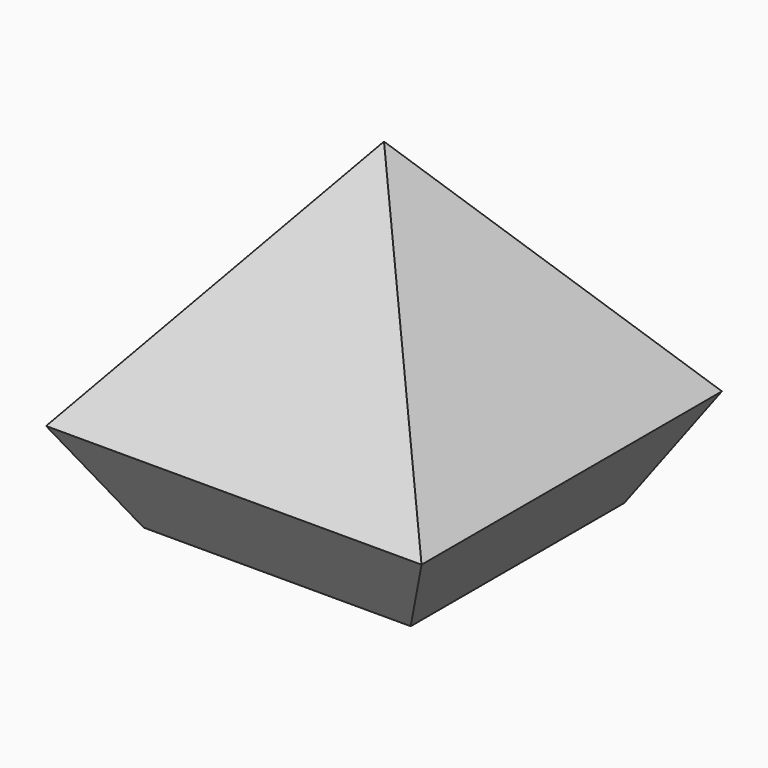
from build123d import *

# Parameters (mm, degrees)
F2_W          = 32
F2_H          = 32
F3_DEPTH      = 20
F3_TAPER      = 38.6
F3_DEPTH_BACK = 8
F3_TAPER_BACK = 30


with BuildPart() as f3:
    # F2 (on plane+point) → F3 (new body, two sides)
    with BuildSketch(Plane.XY.offset(8)) as f3_sk:
        Rectangle(F2_W, F2_H)
    extrude(amount=F3_DEPTH, taper=F3_TAPER)
    extrude(f3_sk.sketch, amount=-F3_DEPTH_BACK, taper=F3_TAPER_BACK)


solid = f3.part
